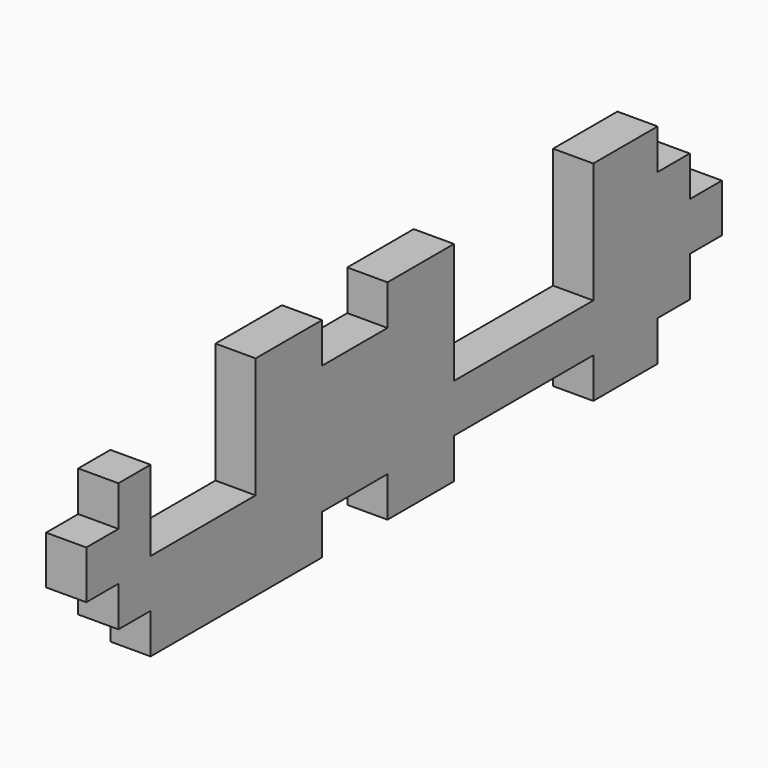
from build123d import *

# Parameters (mm, degrees)
F1_DEPTH = 3


with BuildPart() as f1:
    # F0 (on Right) → F1 (new body)
    with BuildSketch(Plane.YZ):
        Polygon((3, -6), (0, -6), (0, -9.6), (3, -9.6), (3, -12.6), (6, -12.6), (6, -15.6), (22, -15.6), (22, -12.6), (28.1, -12.6), (28.1, -15.6), (34.3, -15.6), (34.3, -12.6), (47.3, -12.6), (47.3, -15.6), (53.3, -15.6), (53.3, -12.6), (56.3, -12.6), (56.3, -9.6), (59.3, -9.6), (59.3, -6), (56.3, -6), (56.3, -3), (53.3, -3), (53.3, 0), (47.3, 0), (47.3, -9), (34.3, -9), (34.3, 0), (28.1, 0), (28.1, -3), (22, -3), (22, 0), (15.8, 0), (15.8, -9), (6, -9), (6, -3), (3, -3), align=None)
    extrude(amount=F1_DEPTH)


solid = f1.part
